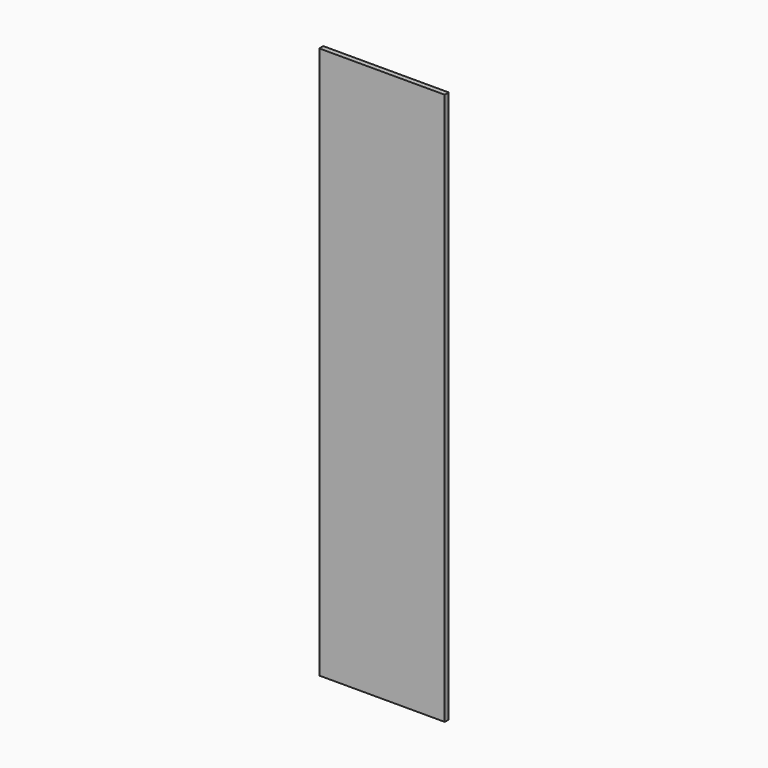
from build123d import *

# Parameters (mm, degrees)
SKETCH_W  = 25
SKETCH_H  = 110
PAD_DEPTH = 1


with BuildPart() as part:
    # Sketch → Pad (new body)
    with BuildSketch(Plane.XZ):
        Rectangle(SKETCH_W, SKETCH_H)
    extrude(amount=PAD_DEPTH)


solid = part.part
